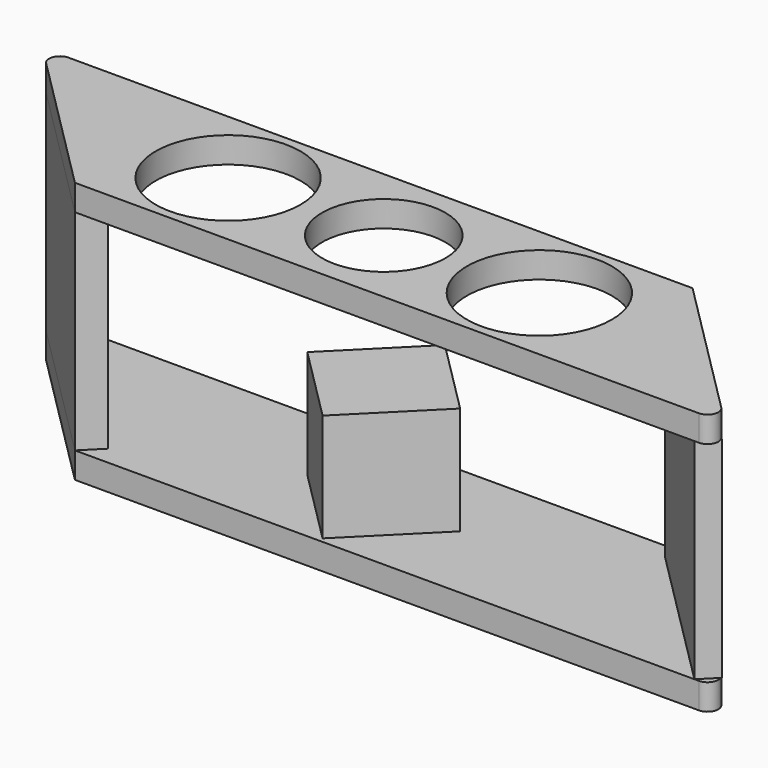
from build123d import *

# Parameters (mm, degrees)
F3_DEPTH = 12
F4_R     = 33.5
F4_R_2   = 28.5
F5_DEPTH = 12
F6_DEPTH = 97
F8_DEPTH = 50
F9_R     = 5
F9_2_R   = 5


with BuildPart() as f3:
    # F2 (on Top) → F3 (new body)
    with BuildSketch(Plane.XY):
        Polygon((187.868919, -37.5), (112.868919, 37.5), (-187.868919, 37.5), (-112.868919, -37.5), align=None)
    extrude(amount=-F3_DEPTH)

    # F7 (on face) → F8 (join)
    with BuildSketch(Plane.XY):
        Polygon((0, -35.355339), (35.355339, 0), (0, 35.355339), (-35.355339, 0), align=None)
    extrude(amount=F8_DEPTH)

    # F9#2
    f9_2_edges = [f3.edges().sort_by_distance(p)[0] for p in [
        (-187.868919, 37.5, -6),
        (187.868919, -37.5, -6),
    ]]
    fillet(f9_2_edges, radius=F9_2_R)


with BuildPart() as f5:
    # F4 (on offset) → F5 (new body)
    with BuildSketch(Plane.XY.offset(97)):
        Polygon((187.868919, -37.5), (112.868919, 37.5), (-187.868919, 37.5), (-112.868919, -37.5), align=None)
        with Locations((-72, 0)):
            Circle(F4_R, mode=Mode.SUBTRACT)
        Circle(F4_R_2, mode=Mode.SUBTRACT)
        with Locations((72, 0)):
            Circle(F4_R, mode=Mode.SUBTRACT)
    extrude(amount=F5_DEPTH)

    # F9
    f9_edges = [f5.edges().sort_by_distance(p)[0] for p in [
        (-187.868919, 37.5, 103),
        (187.868919, -37.5, 103),
    ]]
    fillet(f9_edges, radius=F9_R)


with BuildPart() as f6:
    # F0 (on Top) → F6 (new body, through all)
    with BuildSketch(Plane.XY):
        Polygon((-179.383638, 29.014719), (-112.868919, -37.5), (-104.383638, -29.014719), (-170.898356, 37.5), align=None)
        Polygon((105.797851, 30.428932), (173.726783, -37.5), (180.797851, -30.428932), (112.868919, 37.5), align=None)
    extrude(amount=F6_DEPTH)


solid = Compound([f3.part, f5.part, f6.part])
